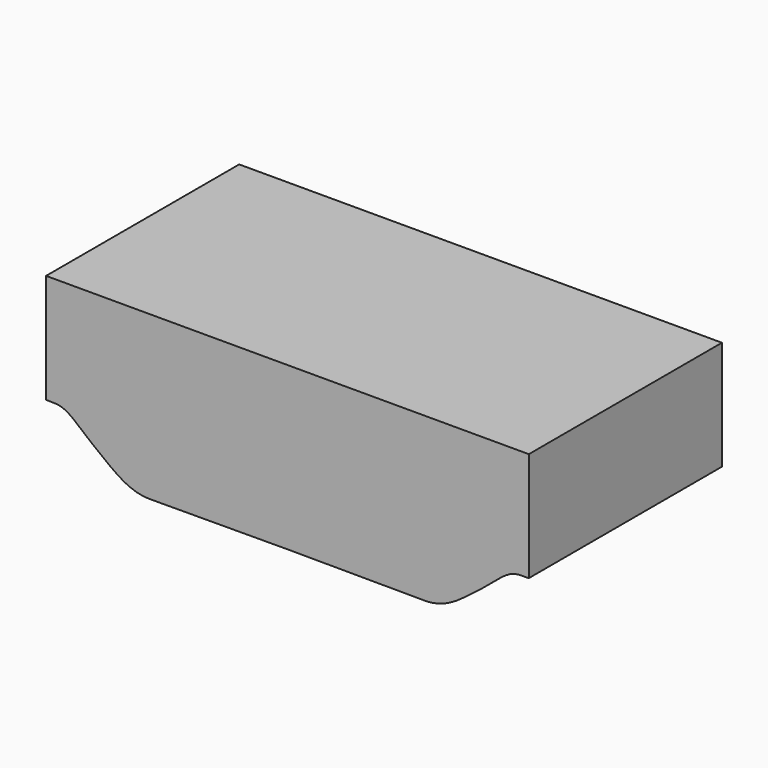
from build123d import *

# Parameters (mm, degrees)
F1_DEPTH = 126


with BuildPart() as f1:
    # F0 (on Front) → F1 (new body)
    with BuildSketch(Plane.XZ):
        with BuildLine():
            Line((0, 84.98), (0, 28))
            add(Edge.make_bspline(
                [(0, 28), (0.618794, 28.000273), (2.022182, 28.000889), (3.997252, 27.996472), (6.020393, 27.83137), (8.049271, 27.39716), (10.073322, 26.588185), (12.058052, 25.412291), (14.042848, 23.996858), (16.027734, 22.406702), (18.001384, 20.708277), (19.989334, 19.000738), (21.990425, 17.331716), (23.990056, 15.700986), (25.99234, 14.110248), (27.99837, 12.551237), (29.994775, 10.999885), (31.99357, 9.471529), (33.983048, 7.970339), (35.976312, 6.539007), (37.973681, 5.208922), (39.964333, 3.990272), (41.971527, 2.941765), (43.969055, 2.030999), (45.979124, 1.30507), (47.97783, 0.713784), (49.993541, 0.308832), (51.97042, 0.044173), (53.38056, 0.013435), (54, 0)],
                knots=[0, 0, 0, 0, 2, 4.000225, 6.008309, 8.056137, 10.206509, 12.513563, 14.960623, 17.515637, 20.140518, 22.771887, 25.377439, 27.957535, 30.51255, 33.049004, 35.579321, 38.097435, 40.597435, 43.056073, 45.457926, 47.795468, 50.054339, 52.24751, 54.376571, 56.458974, 58.500566, 60.51613, 62.51773, 62.51773, 62.51773, 62.51773], degree=3))
            Line((54, 0), (126, 0.28596))
            Line((126, 0.28596), (126, 84.98))
            Line((126, 84.98), (0, 84.98))
        make_face()
    extrude(amount=F1_DEPTH)

    # F2: F1 across face


with BuildPart() as f1_1:
    add(f1.part)
    add(f1.part.mirror(Plane(origin=(126, -63, 42.63298), x_dir=(0, 1, 0), z_dir=(1, 0, 0))))


solid = f1_1.part
